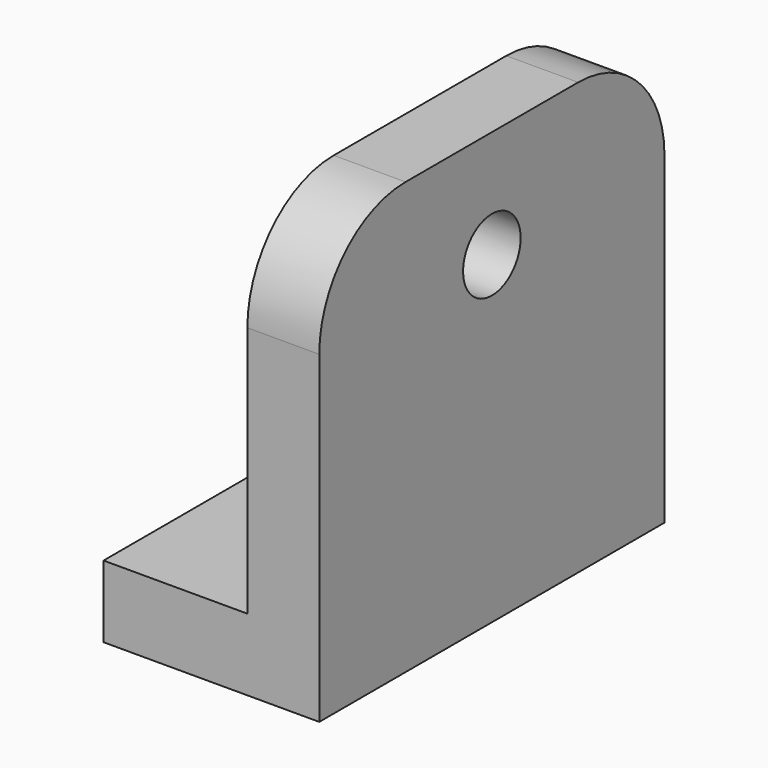
from build123d import *

# Parameters (mm, degrees)
F1_DEPTH = 76.2
F2_R     = 12.7
F3_DEPTH = 76.201
F4_W     = 12.7
F4_H     = 25.4
F5_DEPTH = 25.401
F7_R     = 38.1
F6_R     = 19.05
F8_DEPTH = 6.35


with BuildPart() as f1:
    # F0 (on Front) → F1 (new body, symmetric)
    with BuildSketch(Plane.XZ):
        Polygon((-76.2, 0), (0, 0), (0, 152.4), (-25.4, 152.4), (-25.4, 25.4), (-76.2, 25.4), align=None)
    extrude(amount=F1_DEPTH, both=True)

    # F2 (on Right) → F3 (cut, through all)
    with BuildSketch(Plane.YZ):
        with Locations((0, 114.3)):
            Circle(F2_R)
    extrude(amount=-F3_DEPTH, mode=Mode.SUBTRACT)

    # F4 (on face) → F5 (cut, through all)
    with BuildSketch(Plane.XY.offset(25.4)):
        with Locations((-69.85, 0)):
            Rectangle(F4_W, F4_H)
        with BuildLine():
            ThreePointArc((-63.5, -12.7), (-50.8, 0), (-63.5, 12.7))
            Line((-63.5, 12.7), (-63.5, -12.7))
        make_face()
    extrude(amount=-F5_DEPTH, mode=Mode.SUBTRACT)

    # F7
    f7_edges = [f1.edges().sort_by_distance(p)[0] for p in [
        (-12.7, 76.2, 152.4),
        (-12.7, -76.2, 152.4),
    ]]
    fillet(f7_edges, radius=F7_R)

    # F6 (on face) → F8 (cut)
    with BuildSketch(Plane(origin=(-25.4, 0, 0), x_dir=(0, -1, 0), z_dir=(-1, 0, 0))):
        with Locations((0, 114.3)):
            Circle(F6_R)
    extrude(amount=-F8_DEPTH, mode=Mode.SUBTRACT)


solid = f1.part
